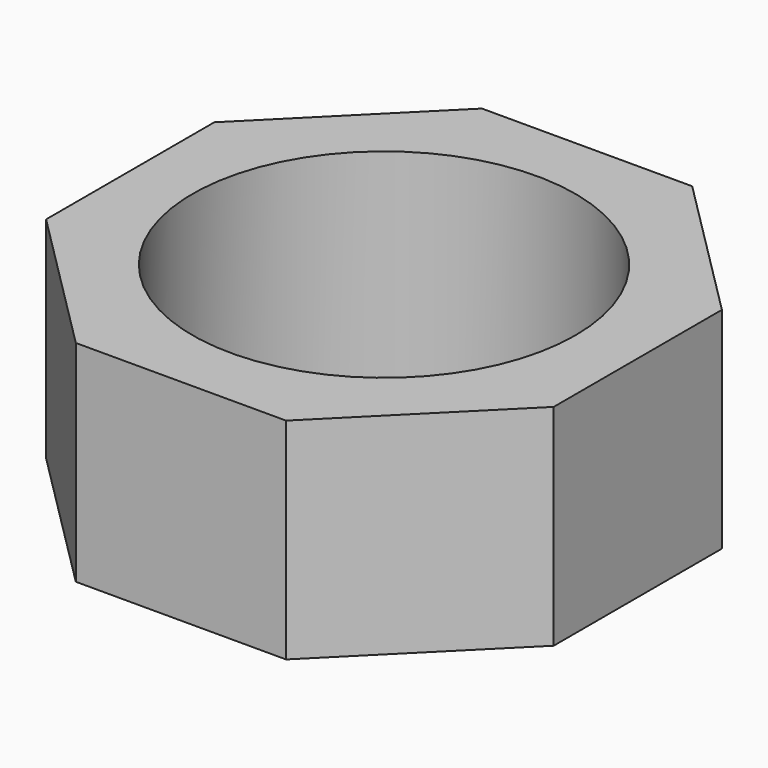
from build123d import *

# Parameters (mm, degrees)
F0_R     = 12.75
F1_DEPTH = 14


with BuildPart() as f1:
    # F0 (on Top) → F1 (new body)
    with BuildSketch(Plane.XY):
        Polygon((-7, 16.899495), (-16.899495, 7), (-16.899495, -7), (-7, -16.899495), (7, -16.899495), (16.899495, -7), (16.899495, 7), (7, 16.899495), align=None)
        Circle(F0_R, mode=Mode.SUBTRACT)
    extrude(amount=F1_DEPTH)


solid = f1.part
